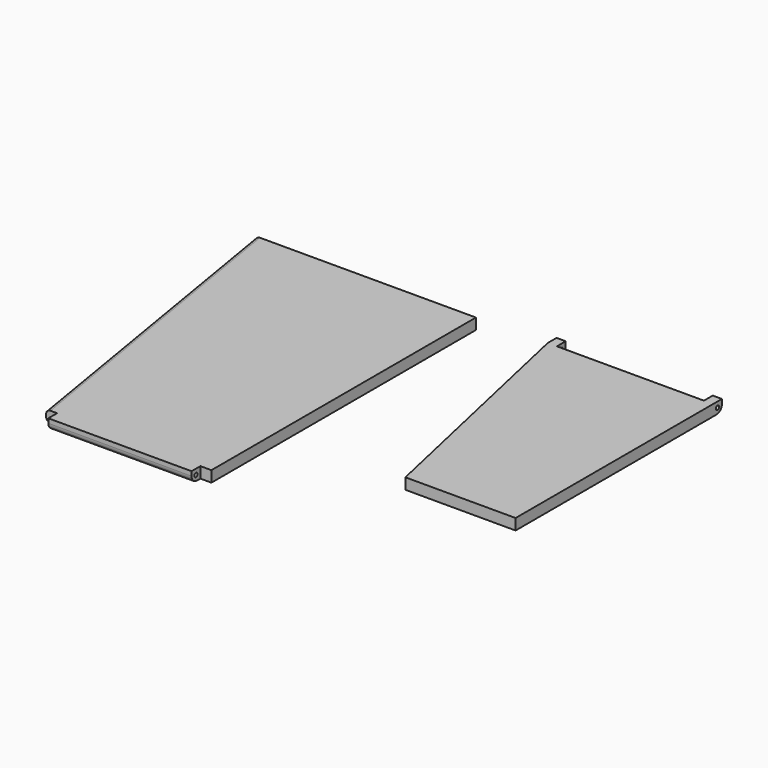
from build123d import *

# Parameters (mm, degrees)
F0_W      = 25
F0_H      = 112
F1_DEPTH  = 5
F2_W      = 25
F2_H      = 150
F3_DEPTH  = 5
F4_R      = 2
F5_W      = 75
F5_H      = 5
F6_DEPTH  = 5
F7_W      = 65
F7_H      = 5
F8_DEPTH  = 5
F9_W      = 66.702231
F9_H      = 7.951083
F10_DEPTH = 5
F11_R     = 0.9
F12_DEPTH = 100
F13_R     = 0.9
F14_DEPTH = 125
F15_R     = 3
F15_2_R   = 3


with BuildPart() as f1:
    # F0 (on Top) → F1 (new body)
    with BuildSketch(Plane.XY):
        Polygon((20.677915, 75.999999), (45.677915, -36.000001), (70.677915, -36.000001), (70.677915, 75.999999), align=None)
        with Locations((83.177915, 19.999999)):
            Rectangle(F0_W, F0_H)
    extrude(amount=F1_DEPTH)

    # F5 (on face) → F6 (join)
    with BuildSketch(Plane(origin=(0, 75.999999, 0), x_dir=(-1, 0, 0), z_dir=(0, 1, 0))):
        with Locations((-58.177915, 2.5)):
            Rectangle(F5_W, F5_H)
    extrude(amount=F6_DEPTH)

    # F9 (on face) → F10 (cut)
    with BuildSketch(Plane(origin=(0, 80.999999, 0), x_dir=(-1, 0, 0), z_dir=(0, 1, 0))):
        with Locations((-58.177915, 3.814935)):
            Rectangle(F9_W, F9_H)
    extrude(amount=-F10_DEPTH, mode=Mode.SUBTRACT)

    # F13 (on face) → F14 (cut)
    with BuildSketch(Plane(origin=(20.677915, 0, 0), x_dir=(0, -1, 0), z_dir=(-1, 0, 0))):
        with Locations((-78.499999, 2.5)):
            Circle(F13_R)
    extrude(amount=-F14_DEPTH, mode=Mode.SUBTRACT)

    # F15
    f15_edges = [f1.edges().sort_by_distance(p)[0] for p in [
        (22.752357, 80.999999, 5),
        (93.603473, 80.999999, 5),
    ]]
    fillet(f15_edges, radius=F15_R)


with BuildPart() as f3:
    # F2 (on Top) → F3 (new body)
    with BuildSketch(Plane.XY):
        Polygon((-36.392649, 75.334491), (-111.392649, 75.334491), (-86.392649, -74.665509), (-36.392649, -74.665509), align=None)
        with Locations((-23.892649, 0.334491)):
            Rectangle(F2_W, F2_H)
    extrude(amount=F3_DEPTH)

    # F4
    f4_edges = [f3.edges().sort_by_distance(p)[0] for p in [
        (-98.892649, 0.334491, 5),
        (-98.892649, 0.334491, 0),
    ]]
    fillet(f4_edges, radius=F4_R)

    # F7 (on face) → F8 (join)
    with BuildSketch(Plane.XZ.offset(74.665509)):
        with Locations((-48.892649, 2.5)):
            Rectangle(F7_W, F7_H)
    extrude(amount=F8_DEPTH)

    # F11 (on face) → F12 (cut)
    with BuildSketch(Plane.YZ.offset(-16.392649)):
        with Locations((-77.165509, 2.5)):
            Circle(F11_R)
    extrude(amount=-F12_DEPTH, mode=Mode.SUBTRACT)

    # F15#2
    f15_2_edges = [f3.edges().sort_by_distance(p)[0] for p in [
        (-48.892649, -79.665509, 5),
    ]]
    fillet(f15_2_edges, radius=F15_2_R)


with BuildPart() as f16_1:
    # F16: instance of F3
    add(f3.part.mirror(Plane.XY))


with BuildPart() as f16_2:
    # F16: instance of F1
    add(f1.part.mirror(Plane.XY))


with BuildPart() as f17_1:
    # F17: instance of F1
    add(f1.part.mirror(Plane.XY))


solid = Compound([f16_1.part, f16_2.part, f17_1.part])
